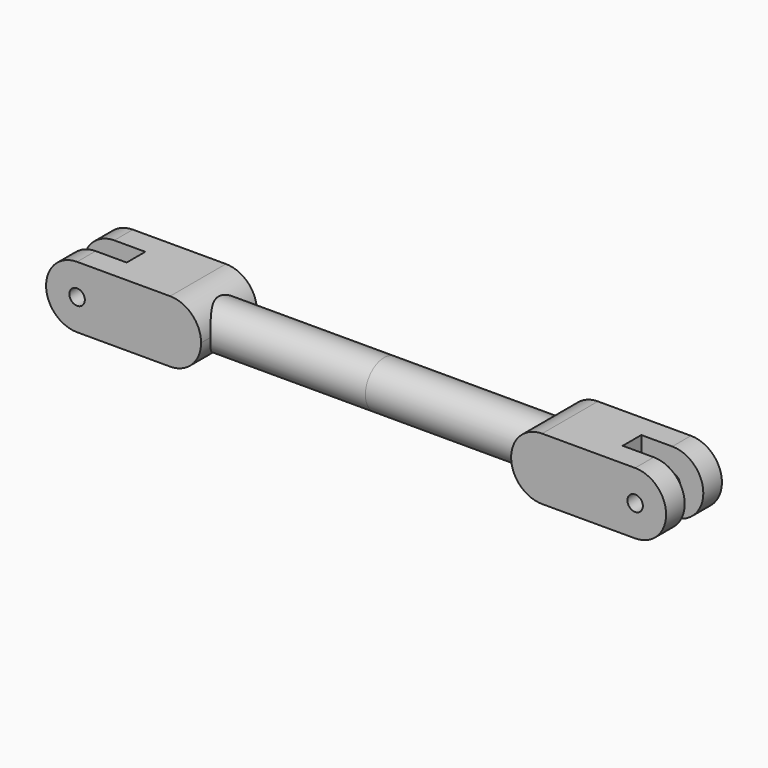
from build123d import *

# Parameters (mm, degrees)
F0_R          = 5
F1_DEPTH      = 22.5
F2_W          = 80
F2_H          = 15
F3_DEPTH      = 36.7
F5_R          = 15
F6_DEPTH      = 106.7712435447
F6_DEPTH_BACK = 106.7712435447


with BuildPart() as f1:
    # F0 (on Front) → F1 (new body, symmetric)
    with BuildSketch(Plane.XZ):
        with BuildLine():
            ThreePointArc((-180, -20), (-165.8578643763, -14.1421356237), (-160, 0))
            ThreePointArc((-160, 0), (-165.8578643763, 14.1421356237), (-180, 20))
            ThreePointArc((-180, 20), (-200, 0), (-180, -20))
        make_face()
        with Locations((-180, 0)):
            Circle(F0_R, mode=Mode.SUBTRACT)
        with BuildLine():
            ThreePointArc((-180, 20), (-165.8578643763, 14.1421356237), (-160, 0))
            ThreePointArc((-160, 0), (-165.8578643763, -14.1421356237), (-180, -20))
            Line((-180, -20), (-120, -20))
            ThreePointArc((-120, -20), (-140, 0), (-120, 20))
            Line((-120, 20), (-180, 20))
        make_face()
        with BuildLine():
            ThreePointArc((-100, 0), (-105.8578643763, 14.1421356237), (-120, 20))
            ThreePointArc((-120, 20), (-140, 0), (-120, -20))
            ThreePointArc((-120, -20), (-105.8578643763, -14.1421356237), (-100, 0))
        make_face()
    extrude(amount=F1_DEPTH, both=True)

    # F2 (on Top) → F3 (cut, symmetric)
    with BuildSketch(Plane.XY):
        with Locations((-200, 0)):
            Rectangle(F2_W, F2_H)
    extrude(amount=F3_DEPTH, both=True, mode=Mode.SUBTRACT)


with BuildPart() as f4_1:
    # F4: instance of F1
    add(f1.part.mirror(Plane.YZ))


with BuildPart() as f1_1:
    add(f1.part)

    add(f4_1.part)  # F6 merges F4_1
    # F5 (on Right) → F6 (join, two sides)
    with BuildSketch(Plane.YZ) as f6_sk:
        Circle(F5_R)
    extrude(amount=F6_DEPTH)
    extrude(f6_sk.sketch, amount=-F6_DEPTH_BACK)


solid = f1_1.part
